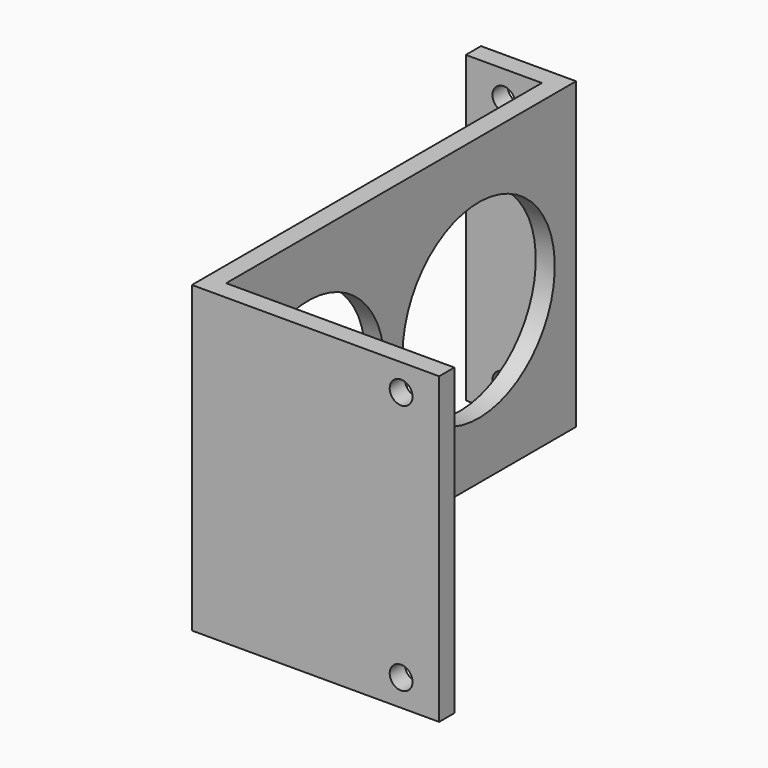
from build123d import *

# Parameters (mm, degrees)
F0_W     = 38.1
F0_H     = 3.175
F0_W_2   = 12.7
F1_DEPTH = 50.8
F2_R     = 15.875
F3_DEPTH = 25.4
F4_R     = 1.905
F5_DEPTH = 25.4
F6_R     = 1.905
F7_DEPTH = 25.4


with BuildPart() as f1:
    # F0 (on Top) → F1 (new body)
    with BuildSketch(Plane.XY):
        with Locations((20.6375, -36.5125)):
            Rectangle(F0_W, F0_H)
        Polygon((-1.5875, -38.1), (1.5875, -38.1), (1.5875, -34.925), (1.5875, 38.1), (-1.5875, 38.1), (-1.5875, 34.925), align=None)
        with Locations((-7.9375, 36.5125)):
            Rectangle(F0_W_2, F0_H)
    extrude(amount=F1_DEPTH)

    # F2 (on face) → F3 (cut)
    with BuildSketch(Plane(origin=(-1.5875, 0, 0), x_dir=(0, -1, 0), z_dir=(-1, 0, 0))):
        with Locations((17.78, 25.4)):
            Circle(F2_R)
        with Locations((-17.78, 25.4)):
            Circle(F2_R)
    extrude(amount=-F3_DEPTH, mode=Mode.SUBTRACT)

    # F4 (on face) → F5 (cut)
    with BuildSketch(Plane.XZ.offset(38.1)):
        with Locations((33.3375, 46.355)):
            Circle(F4_R)
        with Locations((33.3375, 4.445)):
            Circle(F4_R)
    extrude(amount=-F5_DEPTH, mode=Mode.SUBTRACT)

    # F6 (on face) → F7 (cut)
    with BuildSketch(Plane(origin=(0, 38.1, 0), x_dir=(-1, 0, 0), z_dir=(0, 1, 0))):
        with Locations((7.9375, 4.445)):
            Circle(F6_R)
        with Locations((7.9375, 46.355)):
            Circle(F6_R)
    extrude(amount=-F7_DEPTH, mode=Mode.SUBTRACT)


solid = f1.part
